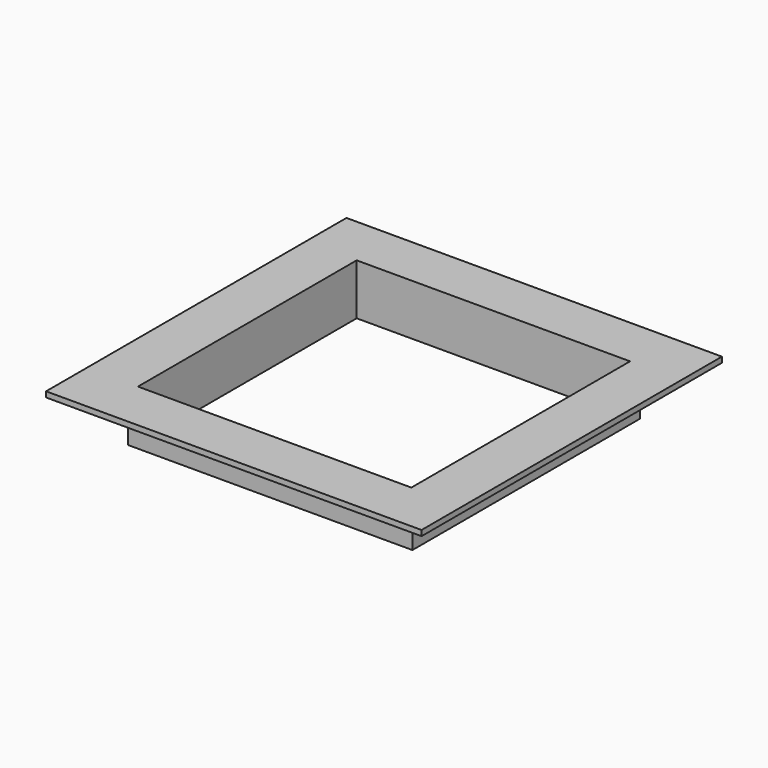
from build123d import *

# Parameters (mm, degrees)
SKETCH051_W  = 300
SKETCH051_H  = 60
PAD_DEPTH    = 150
SKETCH052_W  = 312
SKETCH052_H  = 50
PAD001_DEPTH = 156
SKETCH053_W  = 412
SKETCH053_H  = 412
PAD002_DEPTH = 6


with BuildPart() as body:
    # Sketch051 → Pad (new body, symmetric)
    with BuildSketch(Plane.XZ):
        with Locations((0, 30)):
            Rectangle(SKETCH051_W, SKETCH051_H)
    extrude(amount=PAD_DEPTH, both=True)


with BuildPart() as cut006:
    # Sketch052 → Pad001 (new body, symmetric)
    with BuildSketch(Plane.XZ):
        with Locations((0, 25)):
            Rectangle(SKETCH052_W, SKETCH052_H)
    extrude(amount=PAD001_DEPTH, both=True)

    # Sketch053 (on Face3 of Pad001) → Pad002 (join)
    with BuildSketch(Plane(origin=(0, 0, 50), x_dir=(-1, 0, 0), z_dir=(0, 0, 1))):
        Rectangle(SKETCH053_W, SKETCH053_H)
    extrude(amount=PAD002_DEPTH)

    # Cut006: cut Body
    add(body.part, mode=Mode.SUBTRACT)


solid = cut006.part
